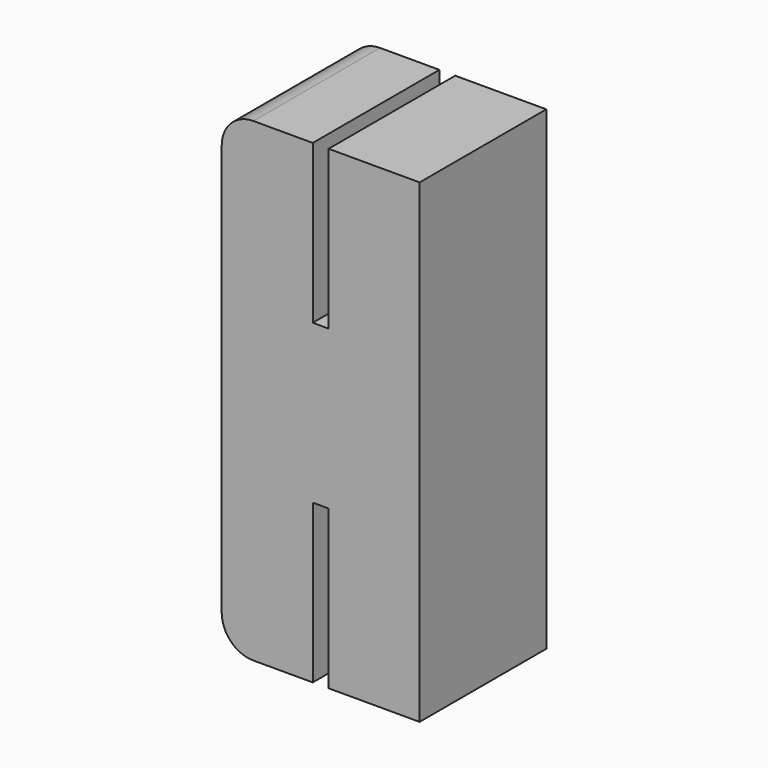
from build123d import *

# Parameters (mm, degrees)
F0_W     = 31.75
F0_H     = 76.2
F1_DEPTH = 25.4
F2_W     = 2.54
F2_H     = 25.4
F3_DEPTH = 25.4
F4_R     = 5.08


with BuildPart() as f1:
    # F0 (on Front) → F1 (new body)
    with BuildSketch(Plane.XZ):
        Rectangle(F0_W, F0_H)
    extrude(amount=F1_DEPTH)

    # F2 (on face) → F3 (cut)
    with BuildSketch(Plane.XZ.offset(25.4)):
        with Locations((0, 25.4)):
            Rectangle(F2_W, F2_H)
        with Locations((0, -25.4)):
            Rectangle(F2_W, F2_H)
    extrude(amount=-F3_DEPTH, mode=Mode.SUBTRACT)

    # F4
    f4_edges = [f1.edges().sort_by_distance(p)[0] for p in [
        (-15.875, -12.7, 38.1),
        (-15.875, -12.7, -38.1),
    ]]
    fillet(f4_edges, radius=F4_R)


solid = f1.part
